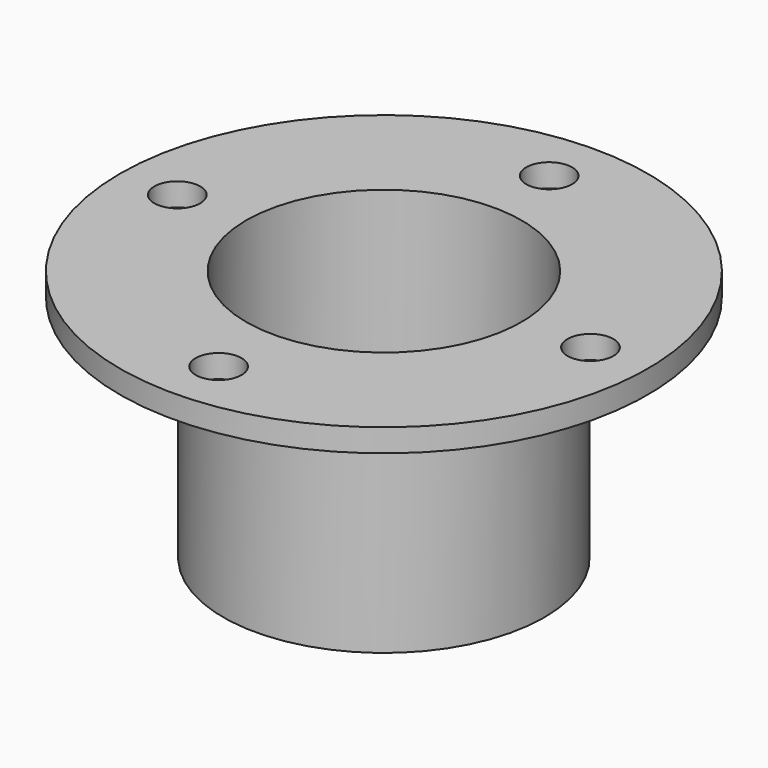
from build123d import *

# Parameters (mm, degrees)
F2_R     = 5
F3_DEPTH = 25


with BuildPart() as f1:
    # F0 (on Front) → F1 (revolve)
    with BuildSketch(Plane.XZ):
        Polygon((-30, 50), (-57.5, 50), (-57.5, 45), (-35, 45), (-35, -5), (0, -5), (0, 0), (-30, 0), align=None)
    revolve(axis=Axis((0, 0, 20.000002), (0, 0, -1)))

    # F2 (on face) → F3 (cut)
    with BuildSketch(Plane.XY.offset(50)):
        with Locations((0, 45)):
            Circle(F2_R)
        with Locations((-45, 0)):
            Circle(F2_R)
        with Locations((0, -45)):
            Circle(F2_R)
        with Locations((45, 0)):
            Circle(F2_R)
    extrude(amount=-F3_DEPTH, mode=Mode.SUBTRACT)


solid = f1.part
